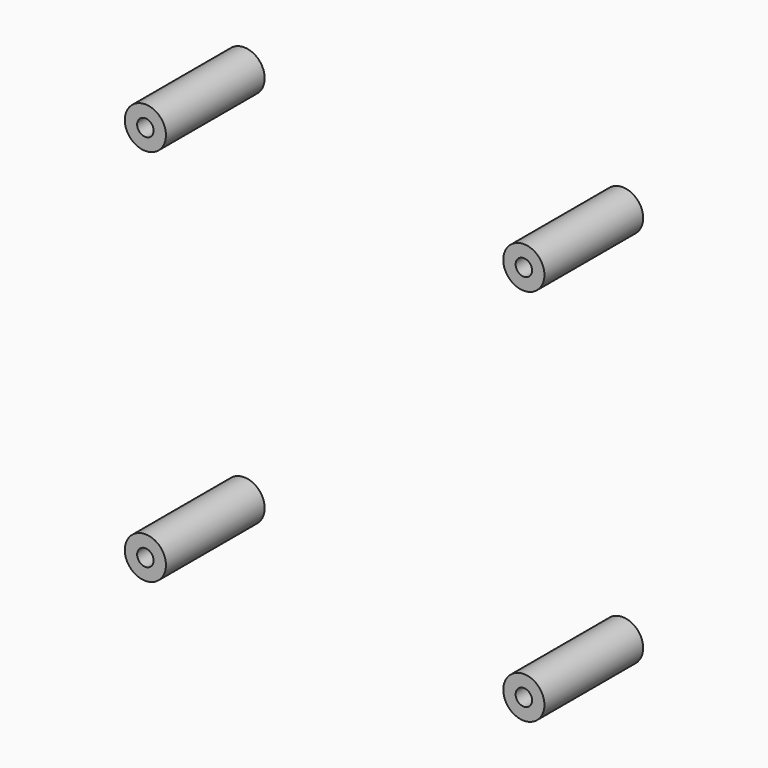
from build123d import *

# Parameters (mm, degrees)
TUBE001_R     = 5
TUBE001_R_2   = 2
TUBE001_DEPTH = 30
TUBE002_R     = 5
TUBE002_R_2   = 2
TUBE002_DEPTH = 30
TUBE003_R     = 5
TUBE003_R_2   = 2
TUBE003_DEPTH = 30
TUBE_R        = 5
TUBE_R_2      = 2
TUBE_DEPTH    = 30


with BuildPart() as tube001:
    # Tube001 → Tube001 (new body)
    with BuildSketch(Plane(origin=(-46, 18, 46), x_dir=(1, 0, 0), z_dir=(0, -1, 0))):
        Circle(TUBE001_R)
        Circle(TUBE001_R_2, mode=Mode.SUBTRACT)
    extrude(amount=TUBE001_DEPTH)


with BuildPart() as tube002:
    # Tube002 → Tube002 (new body)
    with BuildSketch(Plane(origin=(-46, 18, -46), x_dir=(1, 0, 0), z_dir=(0, -1, 0))):
        Circle(TUBE002_R)
        Circle(TUBE002_R_2, mode=Mode.SUBTRACT)
    extrude(amount=TUBE002_DEPTH)


with BuildPart() as tube003:
    # Tube003 → Tube003 (new body)
    with BuildSketch(Plane(origin=(46, 18, -46), x_dir=(1, 0, 0), z_dir=(0, -1, 0))):
        Circle(TUBE003_R)
        Circle(TUBE003_R_2, mode=Mode.SUBTRACT)
    extrude(amount=TUBE003_DEPTH)


with BuildPart() as m3_screws:
    # Tube → Tube (new body)
    with BuildSketch(Plane(origin=(46, 18, 46), x_dir=(1, 0, 0), z_dir=(0, -1, 0))):
        Circle(TUBE_R)
        Circle(TUBE_R_2, mode=Mode.SUBTRACT)
    extrude(amount=TUBE_DEPTH)

    # Fusion001: union Tube001, Tube002, Tube003
    add(tube001.part)
    add(tube002.part)
    add(tube003.part)


solid = m3_screws.part
